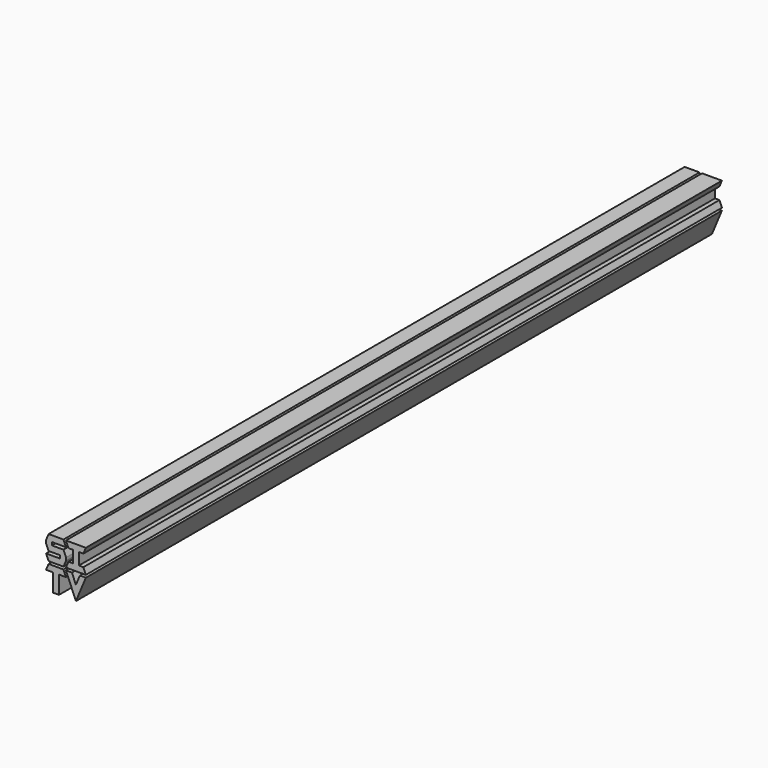
from build123d import *

# Parameters (mm, degrees)
F1_DEPTH = 2540


with BuildPart() as f1:
    # F0 (on Front) → F1 (new body)
    with BuildSketch(Plane.XZ):
        Polygon((0, 57.15), (-7.9375, 76.2), (-55.5625, 76.2), (-63.5, 57.15), (-63.5, 47.625), (-55.5625, 28.575), (-19.05, 28.575), (-19.05, 19.05), (-63.5, 19.05), (-55.5625, 0), (-7.9375, 0), (0, 19.05), (0, 28.575), (-7.9375, 47.625), (-44.45, 47.625), (-44.45, 57.15), align=None)
        Polygon((7.9375, 19.05), (0, 0), (63.5, 0), (55.5625, 19.05), (41.275, 19.05), (41.275, 57.15), (55.5625, 57.15), (63.5, 76.2), (0, 76.2), (7.9375, 57.15), (22.225, 57.15), (22.225, 19.05), align=None)
        Polygon((0, -26.9875), (-7.9375, -7.9375), (-55.5625, -7.9375), (-63.5, -26.9875), (-41.275, -26.9875), (-41.275, -84.1375), (-22.225, -84.1375), (-22.225, -26.9875), align=None)
        Polygon((19.05, -7.9375), (0, -7.9375), (31.75, -84.1375), (63.5, -7.9375), (44.45, -7.9375), (31.75, -38.4175), align=None)
    extrude(amount=-F1_DEPTH)


solid = f1.part
